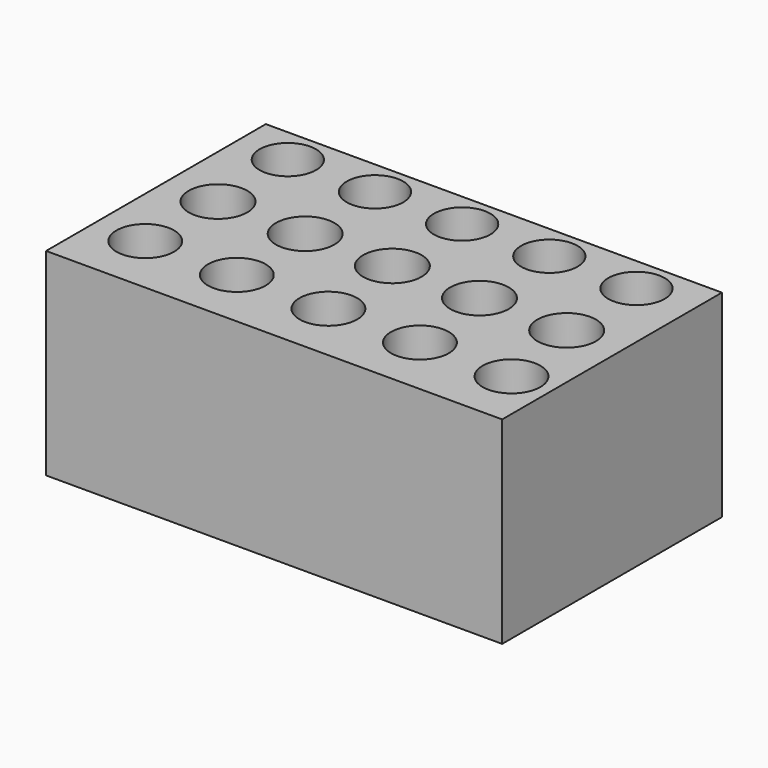
from build123d import *

# Parameters (mm, degrees)
F0_W     = 124.53489
F0_H     = 53.96512
F1_DEPTH = 75
F4_R     = 7.882332
F3_R     = 8
F2_R     = 7.71025
F5_DEPTH = 50


with BuildPart() as f1:
    # F0 (on Front) → F1 (new body)
    with BuildSketch(Plane.XZ):
        with Locations((0, -0.244186)):
            Rectangle(F0_W, F0_H)
    extrude(amount=F1_DEPTH)

    # F4 (on face) + F3 (on face) + F2 (on face) → F5 (cut)
    with BuildSketch(Plane.XY.offset(26.738374)):
        with Locations((-48.593026, -58.238372)):
            Circle(F4_R)
        with Locations((-23.593026, -58.238372)):
            Circle(F4_R)
        with Locations((1.406974, -58.238372)):
            Circle(F4_R)
        with Locations((26.406974, -58.238372)):
            Circle(F4_R)
        with Locations((51.406974, -58.238372)):
            Circle(F4_R)
    with BuildSketch(Plane.XY.offset(26.738374)):
        with Locations((-47.880299, -34.304835)):
            Circle(F3_R)
        with Locations((-24.080299, -34.304835)):
            Circle(F3_R)
        with Locations((-0.280299, -34.304835)):
            Circle(F3_R)
        with Locations((23.519701, -34.304835)):
            Circle(F3_R)
        with Locations((47.319701, -34.304835)):
            Circle(F3_R)
    with BuildSketch(Plane.XY.offset(26.738374)):
        with Locations((-48.34884, -9.889536)):
            Circle(F2_R)
        with Locations((-24.54884, -9.889536)):
            Circle(F2_R)
        with Locations((-0.74884, -9.889536)):
            Circle(F2_R)
        with Locations((23.05116, -9.889536)):
            Circle(F2_R)
        with Locations((46.85116, -9.889536)):
            Circle(F2_R)
    extrude(amount=-F5_DEPTH, mode=Mode.SUBTRACT)


solid = f1.part
